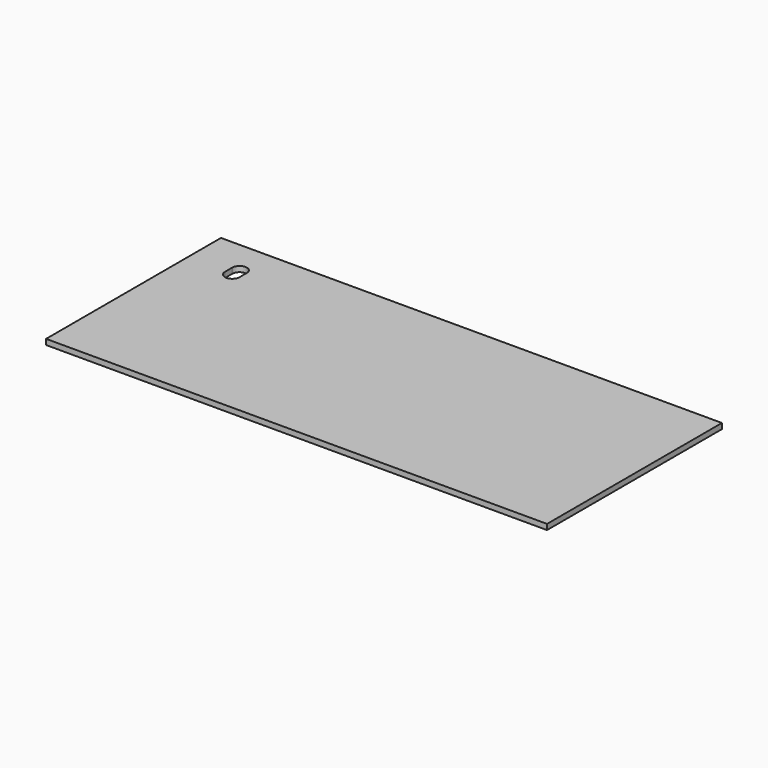
from build123d import *

# Parameters (mm, degrees)
F0_W     = 275
F0_H     = 120
F1_DEPTH = 3
F3_DEPTH = 3


with BuildPart() as f1:
    # F0 (on Top) → F1 (new body)
    with BuildSketch(Plane.XY):
        with Locations((6.193666, 1.624569)):
            Rectangle(F0_W, F0_H)
    extrude(amount=F1_DEPTH)

    # F2 (on face) → F3 (cut)
    with BuildSketch(Plane.XY.offset(3)):
        with BuildLine():
            Line((-102.307304, 43.212634), (-102.30727, 43.038028))
            ThreePointArc((-102.30727, 43.038028), (-102.306334, 43.125331), (-102.307304, 43.212634))
        make_face()
        with BuildLine():
            Line((-102.306334, 38.125331), (-102.30727, 43.038028))
            Line((-102.30727, 43.038028), (-102.307304, 43.212634))
            ThreePointArc((-102.307304, 43.212634), (-106.306334, 47.124569), (-110.305365, 43.212634))
            Line((-110.305365, 43.212634), (-110.305365, 43.036504))
            Line((-110.305365, 43.036504), (-110.305365, 38.212634))
            Line((-110.305365, 38.212634), (-110.305365, 38.036504))
            ThreePointArc((-110.305365, 38.036504), (-106.261918, 34.124816), (-102.306334, 38.125331))
        make_face()
        with BuildLine():
            Line((-110.305365, 43.036504), (-110.305365, 43.212634))
            ThreePointArc((-110.305365, 43.212634), (-110.306334, 43.124569), (-110.305365, 43.036504))
        make_face()
        with BuildLine():
            ThreePointArc((-110.305365, 38.212634), (-110.306334, 38.124569), (-110.305365, 38.036504))
            Line((-110.305365, 38.036504), (-110.305365, 38.212634))
        make_face()
    extrude(amount=-F3_DEPTH, mode=Mode.SUBTRACT)


solid = f1.part
